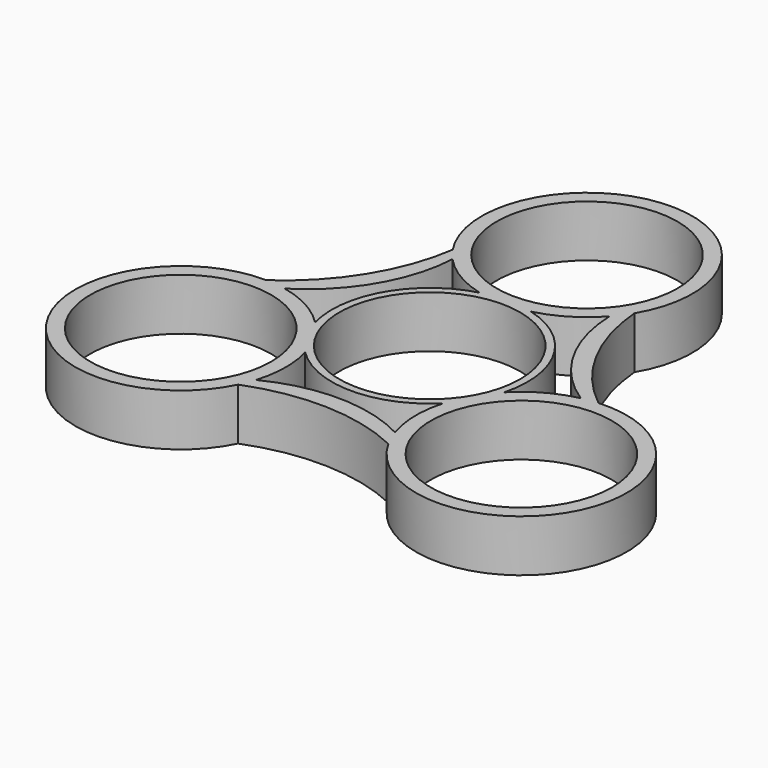
from build123d import *

# Parameters (mm, degrees)
F0_R     = 12.2
F1_DEPTH = 7


with BuildPart() as f1:
    # F0 (on Top) → F1 (new body)
    with BuildSketch(Plane.XY):
        with BuildLine():
            ThreePointArc((-10.461899, 16.917701), (-7.259172, 14.314915), (-3.443284, 12.74299))
            ThreePointArc((-3.443284, 12.74299), (-11.431535, 6.6), (-12.757395, -3.389524))
            ThreePointArc((-12.757395, -3.389524), (-16.111427, -0.823731), (-20.071696, 0.642248))
            ThreePointArc((-20.071696, 0.642248), (-21.411446, 0.855021), (-22.765386, 0.938982))
            ThreePointArc((-22.765386, 0.938982), (-35.073825, -20.679014), (-10.224124, -19.526737))
            ThreePointArc((-10.224124, -19.526737), (-9.783892, -18.538255), (-9.420209, -17.51912))
            ThreePointArc((-9.420209, -17.51912), (-8.767494, -13.444085), (-9.314111, -9.353466))
            ThreePointArc((-9.314111, -9.353466), (0, -13.2), (9.314111, -9.353466))
            ThreePointArc((9.314111, -9.353466), (8.769085, -13.541039), (9.479645, -17.703722))
            ThreePointArc((9.479645, -17.703722), (9.965253, -18.970367), (10.569511, -20.184894))
            ThreePointArc((10.569511, -20.184894), (35.445464, -20.035316), (22.022712, 0.909018))
            ThreePointArc((22.022712, 0.909018), (20.946546, 0.796028), (19.882108, 0.60142))
            ThreePointArc((19.882108, 0.60142), (16.026666, -0.870831), (12.757395, -3.389524))
            ThreePointArc((12.757395, -3.389524), (11.431535, 6.6), (3.443284, 12.74299))
            ThreePointArc((3.443284, 12.74299), (7.342341, 14.36477), (10.592051, 17.061474))
            ThreePointArc((10.592051, 17.061474), (11.446193, 18.115346), (12.195875, 19.245912))
            ThreePointArc((12.195875, 19.245912), (-0.371639, 40.71433), (-11.798589, 18.617719))
            ThreePointArc((-11.798589, 18.617719), (-11.162654, 17.742227), (-10.461899, 16.917701))
        make_face()
        with Locations((-22.966296, -13.259597)):
            Circle(F0_R, mode=Mode.SUBTRACT)
        with Locations((22.966296, -13.259597)):
            Circle(F0_R, mode=Mode.SUBTRACT)
        Circle(F0_R, mode=Mode.SUBTRACT)
        with Locations((0, 26.519194)):
            Circle(F0_R, mode=Mode.SUBTRACT)
        with BuildLine():
            ThreePointArc((-20.071696, 0.642248), (-13.280016, 7.606885), (-10.461899, 16.917701))
            ThreePointArc((-10.461899, 16.917701), (-11.162654, 17.742227), (-11.798589, 18.617719))
            ThreePointArc((-11.798589, 18.617719), (-15.442187, 8.637052), (-22.765386, 0.938982))
            ThreePointArc((-22.765386, 0.938982), (-21.411446, 0.855021), (-20.071696, 0.642248))
        make_face()
        with BuildLine():
            ThreePointArc((22.022712, 0.909018), (15.201, 9.054801), (12.195875, 19.245912))
            ThreePointArc((12.195875, 19.245912), (11.446193, 18.115346), (10.592051, 17.061474))
            ThreePointArc((10.592051, 17.061474), (13.227764, 7.697389), (19.882108, 0.60142))
            ThreePointArc((19.882108, 0.60142), (20.946546, 0.796028), (22.022712, 0.909018))
        make_face()
        with BuildLine():
            ThreePointArc((-9.420209, -17.51912), (-9.783892, -18.538255), (-10.224124, -19.526737))
            ThreePointArc((-10.224124, -19.526737), (0.241187, -17.691853), (10.569511, -20.184894))
            ThreePointArc((10.569511, -20.184894), (9.965253, -18.970367), (9.479645, -17.703722))
            ThreePointArc((9.479645, -17.703722), (0.052253, -15.304274), (-9.420209, -17.51912))
        make_face()
    extrude(amount=F1_DEPTH)


solid = f1.part
